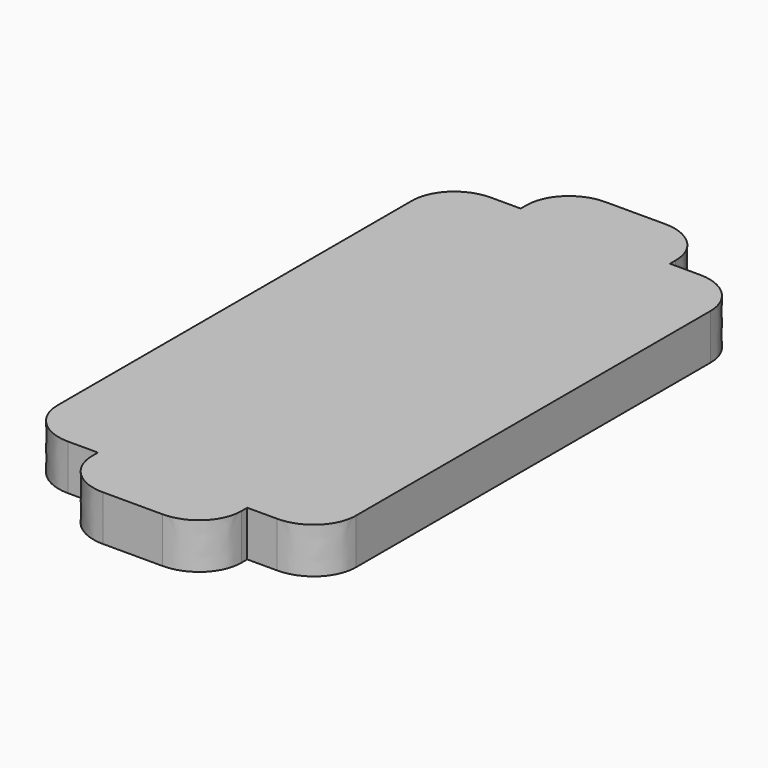
from build123d import *

# Parameters (mm, degrees)
F1_DEPTH = 6.35


with BuildPart() as f1:
    # F0 (on Top) → F1 (new body)
    with BuildSketch(Plane.XY):
        with BuildLine():
            add(Edge.make_bspline(
                [(-4.167193, 43.824071), (-7.616309, 43.824071), (-10.412782, 41.148246), (-10.412782, 37.848004)],
                knots=[0, 0, 0, 0, 1, 1, 1, 1], degree=3))
            Line((-10.412782, 37.848004), (-10.412782, 36.849643))
            Line((-10.412782, 36.849643), (-14.572746, 36.849643))
            add(Edge.make_bspline(
                [(-14.572746, 36.849643), (-18.021507, 36.849643), (-20.817982, 34.174171), (-20.817982, 30.873929)],
                knots=[0, 0, 0, 0, 1, 1, 1, 1], degree=3))
            Line((-20.817982, 30.873929), (-20.817982, -30.878161))
            add(Edge.make_bspline(
                [(-20.817982, -30.878161), (-20.817982, -34.178759), (-18.021507, -36.854228), (-14.572746, -36.854228)],
                knots=[0, 0, 0, 0, 1, 1, 1, 1], degree=3))
            Line((-14.572746, -36.854228), (-10.412782, -36.854228))
            Line((-10.412782, -36.854228), (-10.412782, -37.848356))
            add(Edge.make_bspline(
                [(-10.412782, -37.848356), (-10.412782, -41.148598), (-7.616309, -43.82407), (-4.167193, -43.82407)],
                knots=[0, 0, 0, 0, 1, 1, 1, 1], degree=3))
            Line((-4.167193, -43.82407), (4.160141, -43.82407))
            add(Edge.make_bspline(
                [(4.160141, -43.82407), (7.609255, -43.82407), (10.405374, -41.148598), (10.405374, -37.848356)],
                knots=[0, 0, 0, 0, 1, 1, 1, 1], degree=3))
            Line((10.405374, -37.848356), (10.405374, -36.854228))
            Line((10.405374, -36.854228), (14.572747, -36.854228))
            add(Edge.make_bspline(
                [(14.572747, -36.854228), (18.021861, -36.854228), (20.817983, -34.178759), (20.817983, -30.878161)],
                knots=[0, 0, 0, 0, 1, 1, 1, 1], degree=3))
            Line((20.817983, -30.878161), (20.817983, 30.873929))
            add(Edge.make_bspline(
                [(20.817983, 30.873929), (20.817983, 34.174171), (18.021861, 36.849643), (14.572747, 36.849643)],
                knots=[0, 0, 0, 0, 1, 1, 1, 1], degree=3))
            Line((14.572747, 36.849643), (10.405374, 36.849643))
            Line((10.405374, 36.849643), (10.405374, 37.848004))
            add(Edge.make_bspline(
                [(10.405374, 37.848004), (10.405374, 41.148246), (7.609255, 43.824071), (4.160141, 43.824071)],
                knots=[0, 0, 0, 0, 1, 1, 1, 1], degree=3))
            Line((4.160141, 43.824071), (-4.167193, 43.824071))
        make_face()
    extrude(amount=F1_DEPTH)


solid = f1.part
